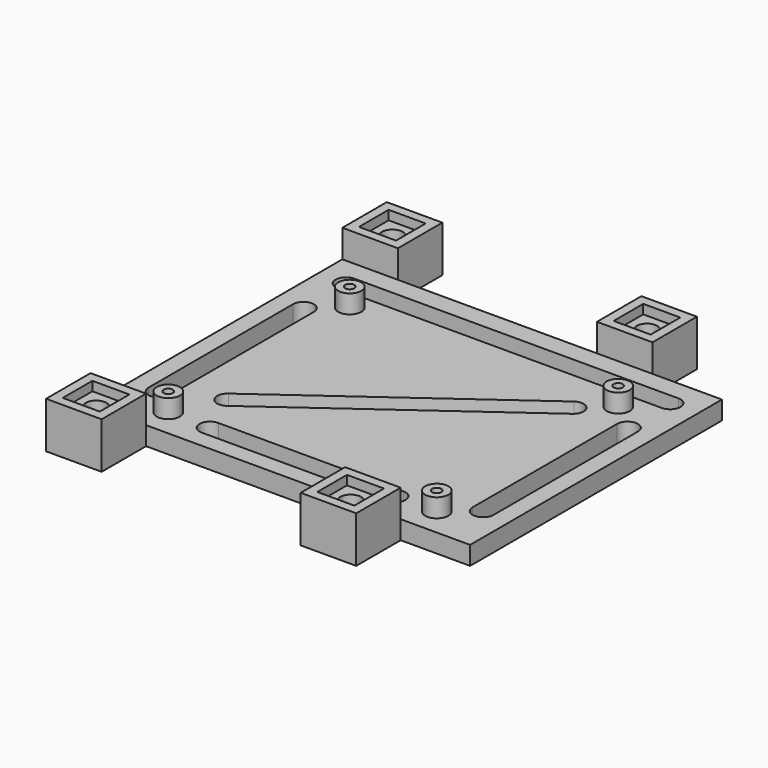
from build123d import *

# Parameters (mm, degrees)
F0_R      = 2.25
F0_R_2    = 1
F1_DEPTH  = 4
F2_W      = 12
F2_H      = 12
F2_R      = 2.25
F3_DEPTH  = 6
F4_W      = 8
F4_H      = 8
F5_DEPTH  = 2
F6_R      = 4
F6_R_2    = 2.25
F7_DEPTH  = 5
F8_R      = 2.5
F8_R_2    = 1
F9_DEPTH  = 4
F11_DEPTH = 4.001


with BuildPart() as f1:
    # F0 (on Top) → F1 (new body)
    with BuildSketch(Plane.XY):
        Polygon((-30, 46), (-42, 46), (-42, -46), (-30, -46), (-30, -34), (13, -34), (13, -46), (25, -46), (25, -34), (40, -34), (40, 34), (25, 34), (25, 46), (13, 46), (13, 34), (-30, 34), align=None)
        with Locations((-36, -40)):
            Circle(F0_R, mode=Mode.SUBTRACT)
        with Locations((-30, -28)):
            Circle(F0_R_2, mode=Mode.SUBTRACT)
        with Locations((19, -40)):
            Circle(F0_R, mode=Mode.SUBTRACT)
        with Locations((28, -28)):
            Circle(F0_R_2, mode=Mode.SUBTRACT)
        with Locations((-30, 21)):
            Circle(F0_R_2, mode=Mode.SUBTRACT)
        with Locations((-36, 40)):
            Circle(F0_R, mode=Mode.SUBTRACT)
        with Locations((28, 21)):
            Circle(F0_R_2, mode=Mode.SUBTRACT)
        with Locations((19, 40)):
            Circle(F0_R, mode=Mode.SUBTRACT)
    extrude(amount=F1_DEPTH)

    # F2 (on face) → F3 (join)
    with BuildSketch(Plane.XY.offset(4)):
        with Locations((-36, -40)):
            Rectangle(F2_W, F2_H)
        with Locations((-36, -40)):
            Circle(F2_R, mode=Mode.SUBTRACT)
        with Locations((-36, 40)):
            Rectangle(F2_W, F2_H)
        with Locations((-36, 40)):
            Circle(F2_R, mode=Mode.SUBTRACT)
        with Locations((19, 40)):
            Rectangle(F2_W, F2_H)
        with Locations((19, 40)):
            Circle(F2_R, mode=Mode.SUBTRACT)
        with Locations((19, -40)):
            Rectangle(F2_W, F2_H)
        with Locations((19, -40)):
            Circle(F2_R, mode=Mode.SUBTRACT)
    extrude(amount=F3_DEPTH)

    # F4 (on face) → F5 (cut)
    with BuildSketch(Plane.XY.offset(10)):
        with Locations((-36, 40)):
            Rectangle(F4_W, F4_H)
        with Locations((19, 40)):
            Rectangle(F4_W, F4_H)
        with Locations((19, -40)):
            Rectangle(F4_W, F4_H)
        with Locations((-36, -40)):
            Rectangle(F4_W, F4_H)
    extrude(amount=-F5_DEPTH, mode=Mode.SUBTRACT)

    # F6 (on face) → F7 (cut)
    with BuildSketch(Plane(origin=(0, 0, 0), x_dir=(1, 0, 0), z_dir=(0, 0, -1))):
        with Locations((-36, 40)):
            Circle(F6_R)
        with Locations((-36, 40)):
            Circle(F6_R_2, mode=Mode.SUBTRACT)
        with Locations((19, 40)):
            Circle(F6_R)
        with Locations((19, 40)):
            Circle(F6_R_2, mode=Mode.SUBTRACT)
        with Locations((19, -40)):
            Circle(F6_R)
        with Locations((19, -40)):
            Circle(F6_R_2, mode=Mode.SUBTRACT)
        with Locations((-36, -40)):
            Circle(F6_R)
        with Locations((-36, -40)):
            Circle(F6_R_2, mode=Mode.SUBTRACT)
    extrude(amount=-F7_DEPTH, mode=Mode.SUBTRACT)

    # F8 (on face) → F9 (join)
    with BuildSketch(Plane.XY.offset(4)):
        with Locations((-30, 21)):
            Circle(F8_R)
        with Locations((-30, 21)):
            Circle(F8_R_2, mode=Mode.SUBTRACT)
        with Locations((-30, -28)):
            Circle(F8_R)
        with Locations((-30, -28)):
            Circle(F8_R_2, mode=Mode.SUBTRACT)
        with Locations((28, -28)):
            Circle(F8_R)
        with Locations((28, -28)):
            Circle(F8_R_2, mode=Mode.SUBTRACT)
        with Locations((28, 21)):
            Circle(F8_R)
        with Locations((28, 21)):
            Circle(F8_R_2, mode=Mode.SUBTRACT)
    extrude(amount=F9_DEPTH)

    # F10 (on face) → F11 (cut, through all)
    with BuildSketch(Plane.XY.offset(4)):
        with BuildLine():
            ThreePointArc((-36, 29.75), (-34.40901, 29.09099), (-33.75, 27.5))
            ThreePointArc((-33.75, 27.5), (-34.40901, 25.90901), (-36, 25.25))
            Line((-36, 25.25), (34, 25.25))
            ThreePointArc((34, 25.25), (31.75, 27.5), (34, 29.75))
            Line((34, 29.75), (-36, 29.75))
        make_face()
        with BuildLine():
            ThreePointArc((-36, 25.25), (-34.40901, 25.90901), (-33.75, 27.5))
            ThreePointArc((-33.75, 27.5), (-34.40901, 29.09099), (-36, 29.75))
            ThreePointArc((-36, 29.75), (-38.25, 27.5), (-36, 25.25))
        make_face()
        with BuildLine():
            ThreePointArc((-38.25, 16), (-36, 13.75), (-33.75, 16))
            ThreePointArc((-33.75, 16), (-36, 18.25), (-38.25, 16))
        make_face()
        with BuildLine():
            Line((-33.75, -23), (-33.75, 16))
            ThreePointArc((-33.75, 16), (-36, 13.75), (-38.25, 16))
            Line((-38.25, 16), (-38.25, -23))
            ThreePointArc((-38.25, -23), (-36, -20.75), (-33.75, -23))
        make_face()
        with BuildLine():
            ThreePointArc((-38.25, -23), (-36, -25.25), (-33.75, -23))
            ThreePointArc((-33.75, -23), (-36, -20.75), (-38.25, -23))
        make_face()
        with BuildLine():
            ThreePointArc((-23.752473, -19.972448), (-23.06584, -19.172576), (-22.818894, -18.147746))
            ThreePointArc((-22.818894, -18.147746), (-24.044064, -16.144693), (-26.385315, -16.323045))
            ThreePointArc((-26.385315, -16.323045), (-26.893596, -19.464167), (-23.752473, -19.972448))
        make_face()
        with BuildLine():
            ThreePointArc((-26.385315, -16.323045), (-24.044064, -16.144693), (-22.818894, -18.147746))
            ThreePointArc((-22.818894, -18.147746), (-23.06584, -19.172576), (-23.752473, -19.972448))
            Line((-23.752473, -19.972448), (23.579985, 14.175298))
            ThreePointArc((23.579985, 14.175298), (20.438863, 14.683579), (20.947143, 17.824702))
            Line((20.947143, 17.824702), (-26.385315, -16.323045))
        make_face()
        with BuildLine():
            ThreePointArc((24.513564, 16), (23.288394, 18.003054), (20.947143, 17.824702))
            ThreePointArc((20.947143, 17.824702), (20.438863, 14.683579), (23.579985, 14.175298))
            ThreePointArc((23.579985, 14.175298), (24.266618, 14.97517), (24.513564, 16))
        make_face()
        with BuildLine():
            ThreePointArc((36.25, 27.5), (35.59099, 29.09099), (34, 29.75))
            ThreePointArc((34, 29.75), (31.75, 27.5), (34, 25.25))
            ThreePointArc((34, 25.25), (35.59099, 25.90901), (36.25, 27.5))
        make_face()
        with BuildLine():
            Line((36.25, -23), (36.25, 16))
            ThreePointArc((36.25, 16), (34, 13.75), (31.75, 16))
            Line((31.75, 16), (31.75, -23))
            ThreePointArc((31.75, -23), (34, -20.75), (36.25, -23))
        make_face()
        with BuildLine():
            ThreePointArc((31.75, 16), (34, 13.75), (36.25, 16))
            ThreePointArc((36.25, 16), (34, 18.25), (31.75, 16))
        make_face()
        with BuildLine():
            ThreePointArc((31.75, -23), (34, -25.25), (36.25, -23))
            ThreePointArc((36.25, -23), (34, -20.75), (31.75, -23))
        make_face()
        with BuildLine():
            ThreePointArc((21.25, -28), (20.59099, -26.40901), (19, -25.75))
            ThreePointArc((19, -25.75), (16.75, -28), (19, -30.25))
            ThreePointArc((19, -30.25), (20.59099, -29.59099), (21.25, -28))
        make_face()
        with BuildLine():
            ThreePointArc((-21, -25.75), (-19.40901, -26.40901), (-18.75, -28))
            ThreePointArc((-18.75, -28), (-19.40901, -29.59099), (-21, -30.25))
            Line((-21, -30.25), (19, -30.25))
            ThreePointArc((19, -30.25), (16.75, -28), (19, -25.75))
            Line((19, -25.75), (-21, -25.75))
        make_face()
        with BuildLine():
            ThreePointArc((-21, -30.25), (-19.40901, -29.59099), (-18.75, -28))
            ThreePointArc((-18.75, -28), (-19.40901, -26.40901), (-21, -25.75))
            ThreePointArc((-21, -25.75), (-23.25, -28), (-21, -30.25))
        make_face()
    extrude(amount=-F11_DEPTH, mode=Mode.SUBTRACT)


solid = f1.part
